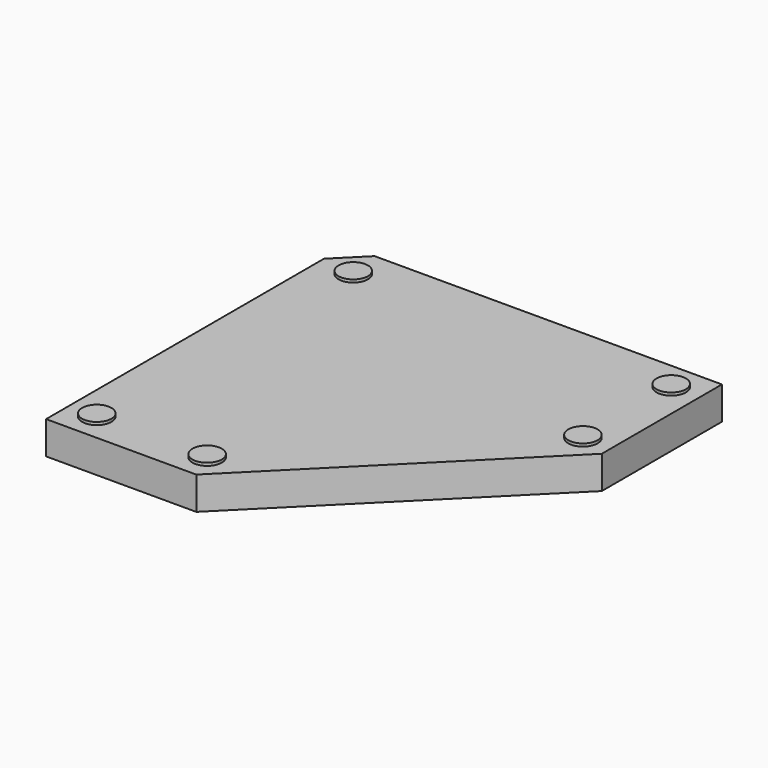
from build123d import *

# Parameters (mm, degrees)
F1_DEPTH = 88.9
F2_DEPTH = 19.05
F3_R     = 39.6875
F4_DEPTH = 7.62


with BuildPart() as f1:
    # F0 (on Top) → F1 (new body)
    with BuildSketch(Plane.XY):
        Polygon((0, -76.2), (0, -1016), (406.4, -1016), (1016, -406.4), (1016, 0), (76.2, 0), align=None)
        Polygon((398.509232, -996.95), (19.05, -996.95), (19.05, -84.090768), (84.090768, -19.05), (996.95, -19.05), (996.95, -398.509232), align=None, mode=Mode.SUBTRACT)
    extrude(amount=-F1_DEPTH)

    # F0 (on Top) → F2 (join)
    with BuildSketch(Plane.XY):
        Polygon((19.05, -84.090768), (19.05, -996.95), (398.509232, -996.95), (996.95, -398.509232), (996.95, -19.05), (84.090768, -19.05), align=None)
    extrude(amount=-F2_DEPTH)

    # F3 (on face) → F4 (join)
    with BuildSketch(Plane.XY):
        with Locations((76.2, -939.8)):
            Circle(F3_R)
        with Locations((91.981537, -91.981537)):
            Circle(F3_R)
        with Locations((374.836927, -939.8)):
            Circle(F3_R)
        with Locations((939.8, -374.836927)):
            Circle(F3_R)
        with Locations((939.8, -76.2)):
            Circle(F3_R)
    extrude(amount=F4_DEPTH)


solid = f1.part
